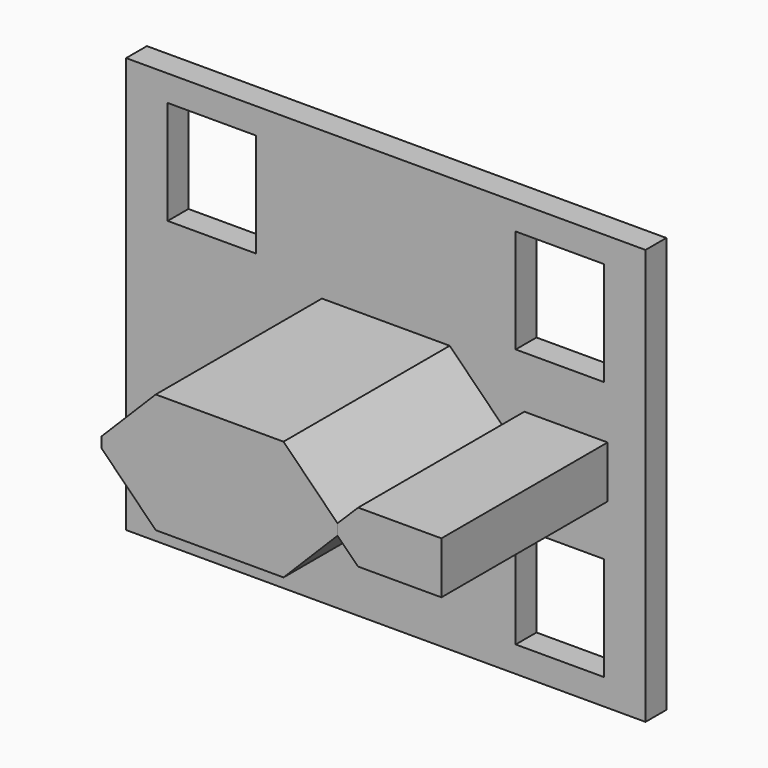
from build123d import *

# Parameters (mm, degrees)
F1_DEPTH = 400
F2_W     = 1000
F2_H     = 800
F3_DEPTH = 50
F4_W     = 170
F4_H     = 200
F6_DEPTH = 50
F8_DEPTH = 400


with BuildPart() as f1:
    # F0 (on Front) → F1 (new body)
    with BuildSketch(Plane.XZ):
        Polygon((-350, 104.564726), (-245.956617, 0.086318), (0.043368, 0), (104, 104.564726), (104, 125.564726), (0, 230.086318), (-246, 230.086318), (-350, 125.564726), align=None)
    extrude(amount=F1_DEPTH)


with BuildPart() as f3:
    # F2 (on face) → F3 (new body)
    with BuildSketch(Plane(origin=(0, 0, 0), x_dir=(-1, 0, 0), z_dir=(0, 1, 0))):
        with Locations((123.011937, 115.064726)):
            Rectangle(F2_W, F2_H)
    extrude(amount=F3_DEPTH)

    # F4 (on face) → F6 (cut, through all)
    with BuildSketch(Plane.XZ):
        with Locations((-457.956625, -134.935274)):
            Rectangle(F4_W, F4_H)
        with Locations((-457.956625, 365.064726)):
            Rectangle(F4_W, F4_H)
        with Locations((212.043375, 365.064726)):
            Rectangle(F4_W, F4_H)
        with Locations((212.043375, -134.935274)):
            Rectangle(F4_W, F4_H)
    extrude(amount=-F6_DEPTH, mode=Mode.SUBTRACT)


with BuildPart() as f8:
    # F7 (on face) → F8 (new body)
    with BuildSketch(Plane.XZ.offset(400)):
        Polygon((104, 125.564726), (104, 115.064726), (104, 104.564726), (143.731055, 65.064726), (304, 65.064726), (304, 115.064726), (304, 165.064726), (143.731055, 165.064726), align=None)
    extrude(amount=-F8_DEPTH)


solid = Compound([f1.part, f3.part, f8.part])
